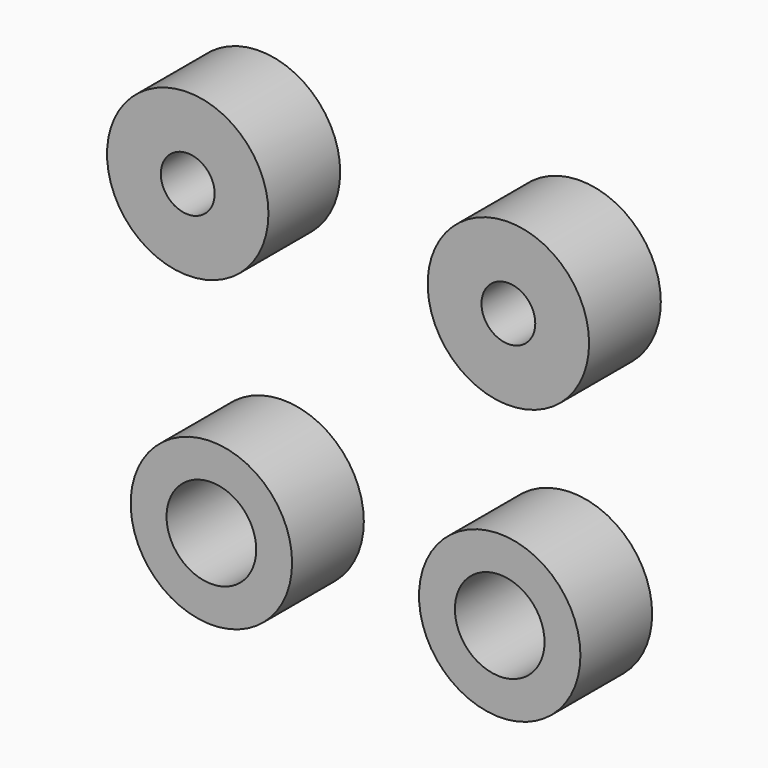
from build123d import *

# Parameters (mm, degrees)
F0_R     = 22.86
F0_R_2   = 7.62
F0_R_3   = 12.7
F1_DEPTH = 25.4


with BuildPart() as f1:
    # F0 (on Front) → F1 (new body)
    with BuildSketch(Plane.XZ):
        with Locations((-46.057425, 42.603086)):
            Circle(F0_R)
        with Locations((-46.057425, 42.603086)):
            Circle(F0_R_2, mode=Mode.SUBTRACT)
        with Locations((44.763176, 39.794199)):
            Circle(F0_R)
        with Locations((44.763176, 39.794199)):
            Circle(F0_R_2, mode=Mode.SUBTRACT)
        with Locations((42.309437, -38.806695)):
            Circle(F0_R)
        with Locations((42.309437, -38.806695)):
            Circle(F0_R_3, mode=Mode.SUBTRACT)
        with Locations((-39.35976, -42.309437)):
            Circle(F0_R)
        with Locations((-39.35976, -42.309437)):
            Circle(F0_R_3, mode=Mode.SUBTRACT)
    extrude(amount=F1_DEPTH)


solid = f1.part
